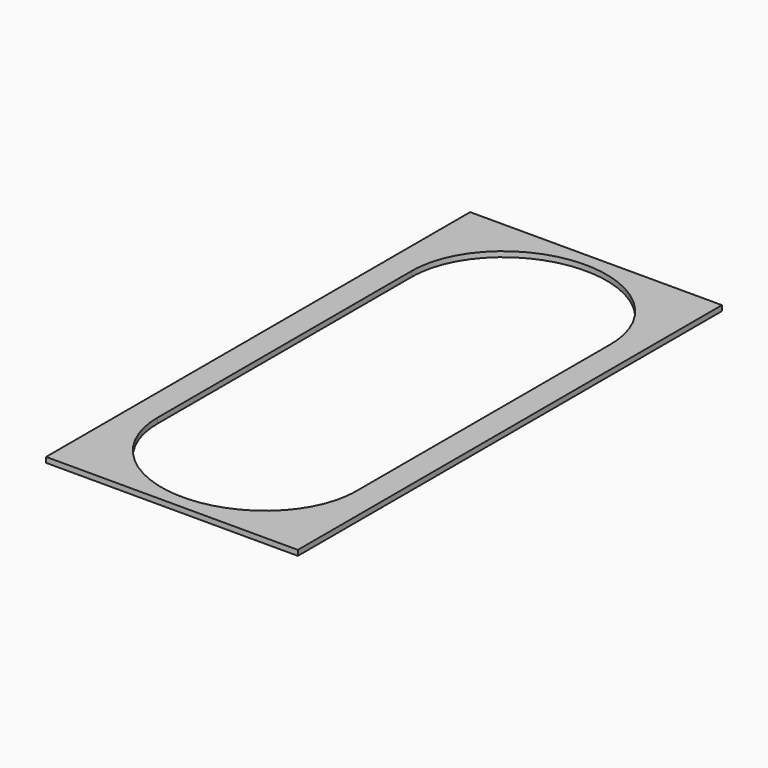
from build123d import *

# Parameters (mm, degrees)
F0_W     = 95
F0_H     = 200
F1_DEPTH = 2


with BuildPart() as f1:
    # F0 (on Top) → F1 (new body)
    with BuildSketch(Plane.XY):
        Rectangle(F0_W, F0_H)
        with BuildLine():
            add(Edge.make_bspline(
                [(-37.5, -60), (-37.5, -94.946389), (0, -94.946389), (37.5, -94.946389), (37.5, -60)],
                knots=[0, 0, 0, 1.570796, 1.570796, 3.141593, 3.141593, 3.141593], degree=2, weights=[1, 0.707107, 1, 0.707107, 1]))
            Line((-37.5, -60), (-37.5, 60))
            add(Edge.make_bspline(
                [(37.5, 60), (37.5, 94.980835), (0, 94.980835), (-37.5, 94.980835), (-37.5, 60)],
                knots=[3.141593, 3.141593, 3.141593, 4.712389, 4.712389, 6.283185, 6.283185, 6.283185], degree=2, weights=[1, 0.707107, 1, 0.707107, 1]))
            Line((37.5, 60), (37.5, -60))
        make_face(mode=Mode.SUBTRACT)
    extrude(amount=F1_DEPTH)


solid = f1.part
